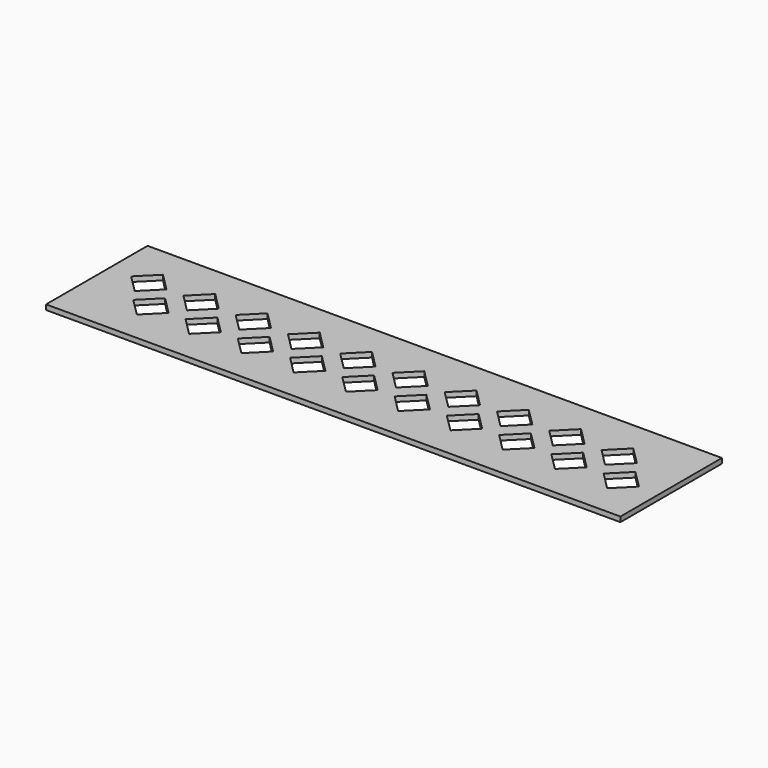
from build123d import *

# Parameters (mm, degrees)
BOX_W        = 115
BOX_H        = 25.4
BOX_DEPTH    = 1
POCKET_DEPTH = 5


with BuildPart() as part:
    # Box → Box (new body)
    with BuildSketch(Plane.XY):
        with Locations((57.5, 12.7)):
            Rectangle(BOX_W, BOX_H)
    extrude(amount=BOX_DEPTH)

    # Sketch (on Face6 of BaseFeature) → Pocket (cut)
    with BuildSketch(Plane.XY.offset(1)):
        Polygon((8, 12.181288), (11.535534, 15.716822), (8, 19.252356), (4.464466, 15.716822), align=None)
        Polygon((18.462497, 12.18305), (21.998031, 15.718584), (18.462497, 19.254118), (14.926963, 15.718584), align=None)
        Polygon((28.924994, 12.184812), (32.460528, 15.720346), (28.924994, 19.25588), (25.38946, 15.720346), align=None)
        Polygon((39.387491, 12.186574), (42.923025, 15.722108), (39.387491, 19.257642), (35.851957, 15.722108), align=None)
        Polygon((49.849988, 12.188336), (53.385522, 15.72387), (49.849988, 19.259404), (46.314454, 15.72387), align=None)
        Polygon((60.312485, 12.190098), (63.848019, 15.725632), (60.312485, 19.261166), (56.776951, 15.725632), align=None)
        Polygon((70.774982, 12.19186), (74.310516, 15.727394), (70.774982, 19.262928), (67.239448, 15.727394), align=None)
        Polygon((81.237479, 12.193622), (84.773013, 15.729156), (81.237479, 19.26469), (77.701945, 15.729156), align=None)
        Polygon((91.699976, 12.195384), (95.23551, 15.730918), (91.699976, 19.266452), (88.164442, 15.730918), align=None)
        Polygon((102.162473, 12.197146), (105.698007, 15.73268), (102.162473, 19.268214), (98.626939, 15.73268), align=None)
        Polygon((13.232534, 6.171852), (16.768068, 9.707386), (13.232534, 13.24292), (9.697, 9.707386), align=None)
        Polygon((23.695031, 6.173614), (27.230565, 9.709148), (23.695031, 13.244682), (20.159497, 9.709148), align=None)
        Polygon((34.157528, 6.175376), (37.693062, 9.71091), (34.157528, 13.246444), (30.621994, 9.71091), align=None)
        Polygon((44.620025, 6.177138), (48.155559, 9.712672), (44.620025, 13.248206), (41.084491, 9.712672), align=None)
        Polygon((55.082522, 6.1789), (58.618056, 9.714434), (55.082522, 13.249968), (51.546988, 9.714434), align=None)
        Polygon((65.545019, 6.180662), (69.080553, 9.716196), (65.545019, 13.25173), (62.009485, 9.716196), align=None)
        Polygon((76.007516, 6.182424), (79.54305, 9.717958), (76.007516, 13.253492), (72.471982, 9.717958), align=None)
        Polygon((86.470013, 6.184186), (90.005547, 9.71972), (86.470013, 13.255254), (82.934479, 9.71972), align=None)
        Polygon((96.93251, 6.185948), (100.468044, 9.721482), (96.93251, 13.257016), (93.396976, 9.721482), align=None)
        Polygon((107.395007, 6.18771), (110.930541, 9.723244), (107.395007, 13.258778), (103.859473, 9.723244), align=None)
    extrude(amount=-POCKET_DEPTH, mode=Mode.SUBTRACT)


solid = part.part
